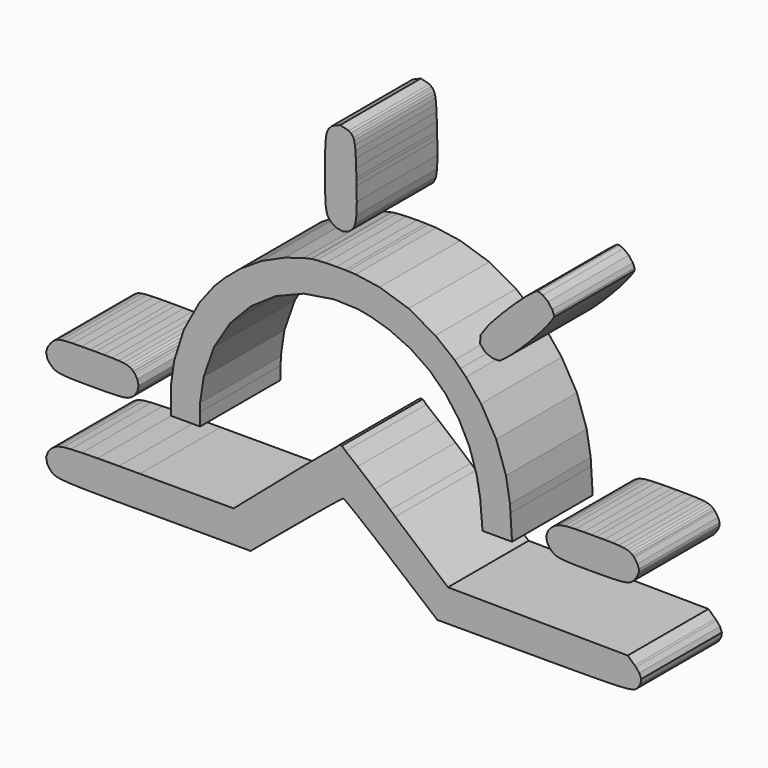
from build123d import *

# Parameters (mm, degrees)
F2_DEPTH = 2.54


with BuildPart() as f2:
    # F1 (on face) → F2 (new body)
    with BuildSketch(Plane.XZ):
        Polygon((-1.317081, 36.590086), (-1.446334, 36.47862), (-2.772385, 35.339894), (-4.956169, 35.339894), (-5.132006, 35.339894), (-5.658718, 35.339368), (-6.195376, 35.336749), (-6.590994, 35.330735), (-6.870449, 35.319744), (-7.058839, 35.302738), (-7.181295, 35.277877), (-7.262406, 35.243866), (-7.31186, 35.211157), (-7.327297, 35.199119), (-7.361053, 35.173216), (-7.446875, 35.074314), (-7.493189, 34.942173), (-7.467025, 34.806641), (-7.397161, 34.699617), (-7.367592, 34.670053), (-7.35608, 34.658536), (-7.317092, 34.627926), (-7.242782, 34.595478), (-7.117451, 34.571932), (-6.914664, 34.555448), (-6.607478, 34.544978), (-6.168686, 34.539224), (-5.571323, 34.536866), (-4.984431, 34.536084), (-4.788711, 34.536084), (-2.343817, 34.536084), (-1.198247, 35.494008), (-1.086549, 35.586896), (-0.750301, 35.864248), (-0.377205, 36.169862), (-0.118122, 36.378667), (-0.017903, 36.456903), (-0.012695, 36.458471), (-0.006184, 36.461876), (0.097459, 36.389919), (0.36151, 36.186346), (0.739814, 35.881258), (1.079969, 35.601282), (1.193017, 35.507352), (2.358409, 34.536084), (4.816662, 34.536084), (5.008515, 34.536084), (5.584652, 34.536605), (6.176512, 34.538963), (6.616645, 34.544457), (6.92931, 34.553876), (7.13838, 34.568532), (7.268693, 34.589984), (7.344026, 34.619032), (7.37933, 34.645978), (7.389023, 34.656708), (7.41415, 34.684179), (7.475401, 34.780207), (7.49421, 34.896124), (7.445306, 35.01465), (7.36052, 35.116181), (7.328545, 35.145745), (7.154585, 35.306399), (2.626367, 35.346699), (1.299988, 36.47862), (1.171507, 36.590347), (0.78404, 36.92239), (0.352298, 37.284238), (0.050871, 37.52813), (-0.042307, 37.617352), (-0.073173, 37.617352), (-0.103991, 37.617352), (-0.196349, 37.52813), (-0.495992, 37.284238), (-0.927444, 36.92239), align=None)
        Polygon((-7.342735, 37.543032), (-7.354248, 37.530203), (-7.383556, 37.499096), (-7.457341, 37.392318), (-7.494235, 37.264899), (-7.464667, 37.141386), (-7.395589, 37.042469), (-7.367592, 37.014497), (-7.356866, 37.003742), (-7.322065, 36.974178), (-7.269472, 36.9428), (-7.201706, 36.919245), (-7.109864, 36.9025), (-6.985314, 36.891254), (-6.819423, 36.884709), (-6.603822, 36.881569), (-6.398152, 36.880523), (-6.32934, 36.880523), (-6.260793, 36.880523), (-6.055122, 36.881569), (-5.839522, 36.884709), (-5.67363, 36.891254), (-5.549085, 36.9025), (-5.457244, 36.919245), (-5.389468, 36.9428), (-5.33688, 36.974178), (-5.301823, 37.003742), (-5.291092, 37.014497), (-5.263091, 37.042758), (-5.196892, 37.14534), (-5.165495, 37.282406), (-5.196892, 37.419519), (-5.263091, 37.522342), (-5.291092, 37.550363), (-5.302083, 37.561359), (-5.33688, 37.590923), (-5.389208, 37.62232), (-5.456453, 37.645855), (-5.547513, 37.662591), (-5.670496, 37.673876), (-5.833768, 37.680387), (-6.046229, 37.68357), (-6.248755, 37.684342), (-6.316, 37.684342), (-6.38691, 37.684342), (-6.599366, 37.683811), (-6.818376, 37.681207), (-6.983221, 37.674648), (-7.104106, 37.662591), (-7.191235, 37.643781), (-7.255341, 37.616581), (-7.306106, 37.579155), align=None)
        Polygon((-0.800024, 41.510787), (-0.836678, 41.502396), (-1.000462, 41.467382), (-1.481878, 41.319272), (-2.068529, 41.055511), (-2.608591, 40.703829), (-2.995847, 40.376261), (-3.114112, 40.256365), (-3.258812, 40.110956), (-3.635597, 39.617435), (-4.025201, 38.896853), (-4.269063, 38.126018), (-4.353314, 37.533628), (-4.353314, 37.336084), (-4.353314, 36.880523), (-3.616489, 36.880523), (-3.616489, 37.202105), (-3.615968, 37.405678), (-3.523606, 38.015575), (-3.26404, 38.759981), (-2.8603, 39.416997), (-2.333834, 39.967814), (-1.706912, 40.394058), (-1.001764, 40.677159), (-0.239851, 40.79826), (0.362041, 40.776557), (0.556691, 40.738939), (0.706585, 40.709616), (1.148261, 40.575348), (1.683886, 40.329383), (2.159081, 40.006783), (2.568541, 39.612756), (2.907153, 39.153284), (3.170335, 38.633622), (3.352977, 38.059559), (3.437521, 37.593286), (3.450302, 37.436544), (3.497132, 36.880523), (4.240814, 36.880523), (4.200495, 37.503533), (4.189499, 37.70291), (4.088461, 38.297132), (3.842061, 39.023212), (3.460044, 39.688089), (3.082463, 40.156436), (2.941106, 40.296684), (2.794588, 40.440839), (2.308975, 40.826811), (1.636526, 41.205212), (0.906492, 41.439409), (0.302864, 41.528873), (0.101125, 41.535915), (0.030711, 41.538519), (-0.180144, 41.541123), (-0.450705, 41.536976), (-0.679935, 41.523857), align=None)
        Polygon((5.279848, 37.5548), (5.265717, 37.543563), (5.231957, 37.517664), (5.146063, 37.418747), (5.099811, 37.286601), (5.125999, 37.15108), (5.195834, 37.044061), (5.225398, 37.014497), (5.236105, 37.003742), (5.270926, 36.974178), (5.323543, 36.9428), (5.391304, 36.919245), (5.483131, 36.9025), (5.607657, 36.891254), (5.773611, 36.884709), (5.989144, 36.881569), (6.194839, 36.880523), (6.263661, 36.880523), (6.332145, 36.880523), (6.537888, 36.881569), (6.753517, 36.884709), (6.919375, 36.891254), (7.043852, 36.9025), (7.135776, 36.919245), (7.203489, 36.9428), (7.256058, 36.974178), (7.291168, 37.003742), (7.301875, 37.014497), (7.320201, 37.033064), (7.396354, 37.148475), (7.435853, 37.248935), (7.435853, 37.282406), (7.435853, 37.315924), (7.396354, 37.416384), (7.320201, 37.532036), (7.301875, 37.550363), (7.290927, 37.561359), (7.256058, 37.590923), (7.204308, 37.62232), (7.13785, 37.645855), (7.048916, 37.662591), (6.929069, 37.673876), (6.770445, 37.680387), (6.564799, 37.68357), (6.369088, 37.684342), (6.30398, 37.684342), (6.239064, 37.684342), (6.044607, 37.68357), (5.83925, 37.680387), (5.679083, 37.673587), (5.556149, 37.661819), (5.461621, 37.644312), (5.38735, 37.619426), (5.324797, 37.586197), align=None)
        Polygon((-0.294204, 44.623983), (-0.334282, 44.583664), (-0.344989, 44.572957), (-0.374794, 44.538136), (-0.406239, 44.485567), (-0.429774, 44.417758), (-0.446558, 44.325931), (-0.457795, 44.201405), (-0.464306, 44.035499), (-0.467441, 43.819918), (-0.468261, 43.614223), (-0.468261, 43.54545), (-0.468261, 43.476917), (-0.467441, 43.271174), (-0.464306, 43.055641), (-0.457795, 42.889736), (-0.446558, 42.76521), (-0.429774, 42.673286), (-0.406239, 42.605573), (-0.374794, 42.553004), (-0.345278, 42.518184), (-0.334282, 42.507187), (-0.302596, 42.475501), (-0.184098, 42.404075), (-0.026295, 42.374993), (0.121573, 42.418736), (0.219429, 42.500146), (0.241903, 42.533858), (0.25888, 42.56183), (0.293701, 42.656358), (0.321963, 42.84469), (0.330354, 43.147468), (0.325098, 43.496257), (0.322252, 43.612391), (0.320371, 43.681213), (0.31468, 43.887197), (0.306481, 44.103019), (0.296595, 44.268635), (0.283525, 44.392197), (0.265969, 44.48113), (0.242916, 44.544165), (0.21287, 44.589162), (0.184849, 44.616363), (0.174914, 44.623983), (0.129676, 44.65591), (-0.087497, 44.711903), align=None)
        Polygon((4.159405, 42.031703), (4.093476, 41.964473), (3.983033, 41.854367), (3.663327, 41.512138), (3.451845, 41.213604), (3.433856, 41.014179), (3.540344, 40.888592), (3.58428, 40.859221), (3.607575, 40.844367), (3.744929, 40.793341), (3.882284, 40.785769), (3.905868, 40.792232), (3.938856, 40.800431), (4.02885, 40.862115), (4.215687, 41.01442), (4.441493, 41.22378), (4.68196, 41.463958), (4.911913, 41.709923), (5.106612, 41.936018), (5.241603, 42.116537), (5.292388, 42.198718), (5.292388, 42.225919), (5.292388, 42.25992), (5.251056, 42.361441), (5.148233, 42.496481), (5.015267, 42.600075), (4.916399, 42.641166), (4.883651, 42.641166), (4.858524, 42.641166), (4.783722, 42.588308), (4.60166, 42.443622), (4.362688, 42.228813), align=None)
    extrude(amount=F2_DEPTH)


solid = f2.part
